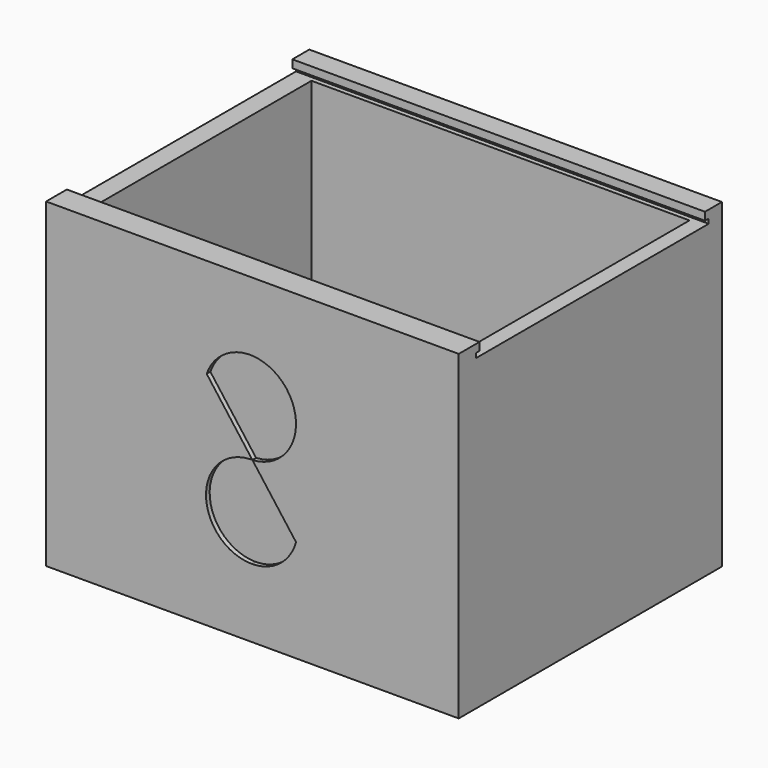
from build123d import *

# Parameters (mm, degrees)
F1_DEPTH  = 177.8
F2_W      = 209.4248831272
F2_H      = 156.0155125335
F3_DEPTH  = 171.45
F4_W      = 155.5528063327
F4_H      = 6.91875844
F5_DEPTH  = 228.601
F6_W      = 2.54
F6_H      = 2.54
F7_DEPTH  = 228.601
F8_W      = 2.54
F8_H      = 2.54
F9_DEPTH  = 228.601
F10_W     = 8.4731229424
F10_H     = 0.6152642891
F11_DEPTH = 5.08
F12_W     = 10.7019939303
F12_H     = 0.6152642891
F13_DEPTH = 5.08
F14_W     = 0.6152642891
F14_H     = 2.54
F15_DEPTH = 228.601
F18_DEPTH = 2.54
F20_DEPTH = 2.54


with BuildPart() as f1:
    # F0 (on Top) → F1 (new body)
    with BuildSketch(Plane.XY):
        Polygon((-114.3, 0), (0, 0), (114.3, 0), (114.3, 182.2615116835), (-114.3, 182.2615116835), align=None)
    extrude(amount=F1_DEPTH)

    # F2 (on face) → F3 (cut)
    with BuildSketch(Plane.XY.offset(177.8)):
        with Locations((1.1144354939, 92.3765613697)):
            Rectangle(F2_W, F2_H)
    extrude(amount=-F3_DEPTH, mode=Mode.SUBTRACT)

    # F4 (on face) → F5 (cut, through all)
    with BuildSketch(Plane.YZ.offset(114.3)):
        with Locations((92.7604725584, 174.34062078)):
            Rectangle(F4_W, F4_H)
    extrude(amount=-F5_DEPTH, mode=Mode.SUBTRACT)

    # F6 (on face) → F7 (cut, through all)
    with BuildSketch(Plane.YZ.offset(114.3)):
        with Locations((171.8068757248, 172.15124156)):
            Rectangle(F6_W, F6_H)
    extrude(amount=-F7_DEPTH, mode=Mode.SUBTRACT)

    # F8 (on face) → F9 (cut, through all)
    with BuildSketch(Plane.YZ.offset(114.3)):
        with Locations((13.7140693921, 172.15124156)):
            Rectangle(F8_W, F8_H)
    extrude(amount=-F9_DEPTH, mode=Mode.SUBTRACT)

    # F10 (on face) → F11 (cut)
    with BuildSketch(Plane.XY.offset(177.8)):
        with Locations((110.0634385288, 14.6764372475)):
            Rectangle(F10_W, F10_H)
    extrude(amount=-F11_DEPTH, mode=Mode.SUBTRACT)

    # F12 (on face) → F13 (cut)
    with BuildSketch(Plane.XY.offset(177.8)):
        with Locations((-108.9490030348, 14.6764372475)):
            Rectangle(F12_W, F12_H)
    extrude(amount=-F13_DEPTH, mode=Mode.SUBTRACT)

    # F14 (on face) → F15 (cut, through all)
    with BuildSketch(Plane.YZ.offset(114.3)):
        with Locations((12.1364372475, 172.15124156)):
            Rectangle(F14_W, F14_H)
    extrude(amount=-F15_DEPTH, mode=Mode.SUBTRACT)

    # F17 (on face) → F18 (cut)
    with BuildSketch(Plane.XZ):
        with BuildLine():
            ThreePointArc((-0.6215579752, 38.1), (-0.3107789876, 38.0980988196), (0, 38.1))
            Line((0, 38.1), (-0.6215579752, 38.1))
        make_face()
        with BuildLine():
            Line((-0.6215579752, 38.1), (0, 38.1))
            ThreePointArc((0, 38.1), (15.1778442025, 43.3664673926), (24.1602391289, 56.6863478281))
            Line((24.1602391289, 56.6863478281), (0.0064452881, 88.8914062825))
            ThreePointArc((0.0064452881, 88.8914062825), (-0.8577674698, 88.8623323611), (-1.722469087, 88.8626440783))
            ThreePointArc((-1.722469087, 88.8626440783), (-25.7067084526, 62.9492276466), (-0.6215579752, 38.1))
        make_face()
        with BuildLine():
            ThreePointArc((-0.227703523, 88.9017653333), (-0.9753742254, 88.8932057202), (-1.722469087, 88.8626440783))
            ThreePointArc((-1.722469087, 88.8626440783), (-0.8577674698, 88.8623323611), (0.0064452881, 88.8914062825))
            Line((0.0064452881, 88.8914062825), (0, 88.9))
            ThreePointArc((0, 88.9), (-0.1138537398, 88.9006274972), (-0.227703523, 88.9017653333))
        make_face()
        with BuildLine():
            Line((0, 88.9), (0.0064452881, 88.8914062825))
            ThreePointArc((0.0064452881, 88.8914062825), (0.0862911744, 88.8955776847), (0.1661235568, 88.9))
            ThreePointArc((0.1661235568, 88.9), (0.0830617784, 88.8998641882), (0, 88.9))
        make_face()
        with BuildLine():
            ThreePointArc((0, 88.9), (-0.1138497834, 88.9011378184), (-0.227703523, 88.9017653333))
            ThreePointArc((-0.227703523, 88.9017653333), (-0.1138537398, 88.9006274972), (0, 88.9))
        make_face()
        with BuildLine():
            Line((-25.3127280516, 122.6503040688), (0, 88.9))
            ThreePointArc((0, 88.9), (0.0830617784, 88.8998641882), (0.1661235568, 88.9))
            ThreePointArc((0.1661235568, 88.9), (24.1602391289, 114.3), (0.1661235568, 139.7))
            Line((0.1661235568, 139.7), (0, 139.7))
            Line((0, 139.7), (-2.7280201219, 139.7))
            ThreePointArc((-2.7280201219, 139.7), (-16.6095490882, 134.6048766126), (-25.3127280516, 122.6503040688))
        make_face()
        with BuildLine():
            Line((0, 139.7), (0.1661235568, 139.7))
            ThreePointArc((0.1661235568, 139.7), (0.0830617784, 139.7001358118), (0, 139.7))
        make_face()
        with BuildLine():
            ThreePointArc((0, 139.7), (0.0830617784, 139.7001358118), (0.1661235568, 139.7))
            ThreePointArc((0.1661235568, 139.7), (-1.2809482826, 139.7411874115), (-2.7280201219, 139.7))
            Line((-2.7280201219, 139.7), (0, 139.7))
        make_face()
    extrude(amount=-F18_DEPTH, mode=Mode.SUBTRACT)

    # F19 (on face) → F20 (cut)
    with BuildSketch(Plane(origin=(0, 182.2615116835, 0), x_dir=(-1, 0, 0), z_dir=(0, 1, 0))):
        with BuildLine():
            ThreePointArc((-0.6215579752, 38.1), (-0.3107789876, 38.0980988196), (0, 38.1))
            Line((0, 38.1), (-0.6215579752, 38.1))
        make_face()
        with BuildLine():
            Line((-0.6215579752, 38.1), (0, 38.1))
            ThreePointArc((0, 38.1), (15.1778442025, 43.3664673926), (24.1602391289, 56.6863478281))
            Line((24.1602391289, 56.6863478281), (0.0064452881, 88.8914062825))
            ThreePointArc((0.0064452881, 88.8914062825), (-0.8577674698, 88.8623323611), (-1.722469087, 88.8626440783))
            ThreePointArc((-1.722469087, 88.8626440783), (-25.7067084526, 62.9492276466), (-0.6215579752, 38.1))
        make_face()
        with BuildLine():
            ThreePointArc((-0.227703523, 88.9017653333), (-0.9753742254, 88.8932057202), (-1.722469087, 88.8626440783))
            ThreePointArc((-1.722469087, 88.8626440783), (-0.8577674698, 88.8623323611), (0.0064452881, 88.8914062825))
            Line((0.0064452881, 88.8914062825), (0, 88.9))
            ThreePointArc((0, 88.9), (-0.1138537398, 88.9006274972), (-0.227703523, 88.9017653333))
        make_face()
        with BuildLine():
            Line((0, 88.9), (0.0064452881, 88.8914062825))
            ThreePointArc((0.0064452881, 88.8914062825), (0.0862911744, 88.8955776847), (0.1661235568, 88.9))
            ThreePointArc((0.1661235568, 88.9), (0.0830617784, 88.8998641882), (0, 88.9))
        make_face()
        with BuildLine():
            ThreePointArc((0, 88.9), (-0.1138497834, 88.9011378184), (-0.227703523, 88.9017653333))
            ThreePointArc((-0.227703523, 88.9017653333), (-0.1138537398, 88.9006274972), (0, 88.9))
        make_face()
        with BuildLine():
            Line((-25.3127280516, 122.6503040688), (0, 88.9))
            ThreePointArc((0, 88.9), (0.0830617784, 88.8998641882), (0.1661235568, 88.9))
            ThreePointArc((0.1661235568, 88.9), (24.1602391289, 114.3), (0.1661235568, 139.7))
            Line((0.1661235568, 139.7), (0, 139.7))
            Line((0, 139.7), (-2.7280201219, 139.7))
            ThreePointArc((-2.7280201219, 139.7), (-16.6095490882, 134.6048766126), (-25.3127280516, 122.6503040688))
        make_face()
        with BuildLine():
            Line((0, 139.7), (0.1661235568, 139.7))
            ThreePointArc((0.1661235568, 139.7), (0.0830617784, 139.7001358118), (0, 139.7))
        make_face()
        with BuildLine():
            ThreePointArc((0, 139.7), (0.0830617784, 139.7001358118), (0.1661235568, 139.7))
            ThreePointArc((0.1661235568, 139.7), (-1.2809482826, 139.7411874115), (-2.7280201219, 139.7))
            Line((-2.7280201219, 139.7), (0, 139.7))
        make_face()
    extrude(amount=-F20_DEPTH, mode=Mode.SUBTRACT)


solid = f1.part
